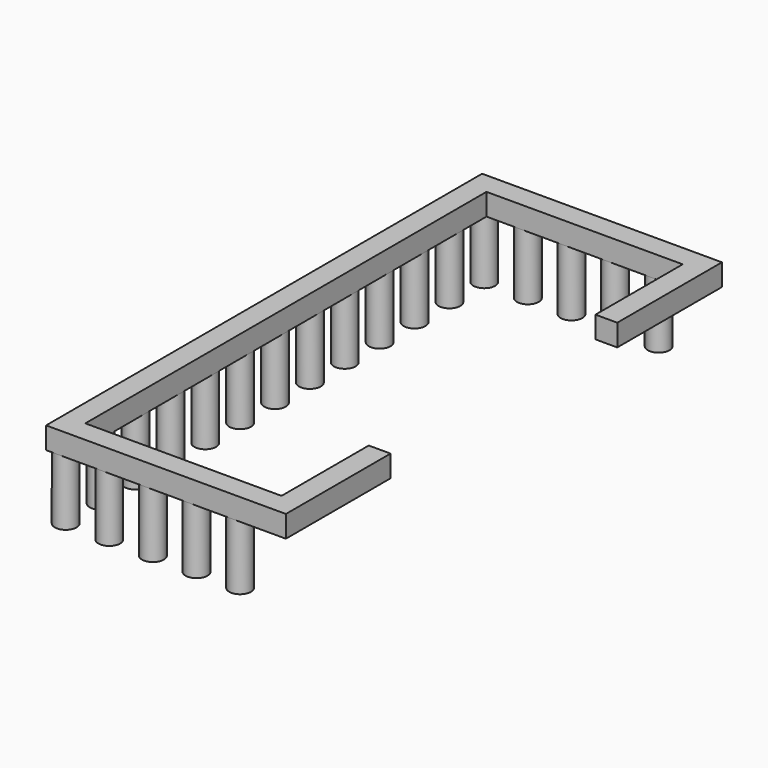
from build123d import *

# Parameters (mm, degrees)
BOX114_W          = 9
BOX114_H          = 1
BOX114_DEPTH      = 1
CYLINDER025_R     = 0.5
CYLINDER025_DEPTH = 3
CYLINDER023_R     = 0.5
CYLINDER023_DEPTH = 3
CYLINDER024_R     = 0.5
CYLINDER024_DEPTH = 3
CYLINDER026_R     = 0.5
CYLINDER026_DEPTH = 3
CYLINDER021_R     = 0.5
CYLINDER021_DEPTH = 3
CYLINDER020_R     = 0.5
CYLINDER020_DEPTH = 3
CYLINDER019_R     = 0.5
CYLINDER019_DEPTH = 3
CYLINDER022_R     = 0.5
CYLINDER022_DEPTH = 3
BOX113_W          = 9
BOX113_H          = 1
BOX113_DEPTH      = 1
CYLINDER007_R     = 0.5
CYLINDER007_DEPTH = 3
CYLINDER009_R     = 0.5
CYLINDER009_DEPTH = 3
CYLINDER008_R     = 0.5
CYLINDER008_DEPTH = 3
CYLINDER010_R     = 0.5
CYLINDER010_DEPTH = 3
CYLINDER011_R     = 0.5
CYLINDER011_DEPTH = 3
CYLINDER013_R     = 0.5
CYLINDER013_DEPTH = 3
CYLINDER012_R     = 0.5
CYLINDER012_DEPTH = 3
CYLINDER014_R     = 0.5
CYLINDER014_DEPTH = 3
CYLINDER015_R     = 0.5
CYLINDER015_DEPTH = 3
CYLINDER016_R     = 0.5
CYLINDER016_DEPTH = 3
CYLINDER017_R     = 0.5
CYLINDER017_DEPTH = 3
CYLINDER018_R     = 0.5
CYLINDER018_DEPTH = 3
CYLINDER006_R     = 0.5
CYLINDER006_DEPTH = 3
BOX112_W          = 1
BOX112_H          = 25
BOX112_DEPTH      = 1
BOX115_W          = 1
BOX115_H          = 6
BOX115_DEPTH      = 1
BOX116_W          = 1
BOX116_H          = 6
BOX116_DEPTH      = 1


with BuildPart() as box114:
    # Box114 → Box114 (new body)
    with BuildSketch(Plane(origin=(-9, 24, 14), x_dir=(1, 0, 0), z_dir=(0, 0, 1))):
        with Locations((4.5, 0.5)):
            Rectangle(BOX114_W, BOX114_H)
    extrude(amount=BOX114_DEPTH)


with BuildPart() as cylinder025:
    # Cylinder025 → Cylinder025 (new body)
    with BuildSketch(Plane(origin=(-1.5, 0.5, 11), x_dir=(1, 0, 0), z_dir=(0, 0, 1))):
        Circle(CYLINDER025_R)
    extrude(amount=CYLINDER025_DEPTH)


with BuildPart() as cylinder023:
    # Cylinder023 → Cylinder023 (new body)
    with BuildSketch(Plane(origin=(-7.5, 0.5, 11), x_dir=(1, 0, 0), z_dir=(0, 0, 1))):
        Circle(CYLINDER023_R)
    extrude(amount=CYLINDER023_DEPTH)


with BuildPart() as cylinder024:
    # Cylinder024 → Cylinder024 (new body)
    with BuildSketch(Plane(origin=(-5.5, 0.5, 11), x_dir=(1, 0, 0), z_dir=(0, 0, 1))):
        Circle(CYLINDER024_R)
    extrude(amount=CYLINDER024_DEPTH)


with BuildPart() as fusion057:
    # Cylinder026 → Cylinder026 (new body)
    with BuildSketch(Plane(origin=(-3.5, 0.5, 11), x_dir=(1, 0, 0), z_dir=(0, 0, 1))):
        Circle(CYLINDER026_R)
    extrude(amount=CYLINDER026_DEPTH)

    # Fusion056: union Cylinder025, Cylinder023, Cylinder024
    add(cylinder025.part)
    add(cylinder023.part)
    add(cylinder024.part)


with BuildPart() as fusion057_1:
    # Fusion056 placement: moved
    add(fusion057.part.moved(Location((0, 24, 0))))

    # Fusion057: union Box114
    add(box114.part)


with BuildPart() as cylinder021:
    # Cylinder021 → Cylinder021 (new body)
    with BuildSketch(Plane(origin=(-1.5, 0.5, 11), x_dir=(1, 0, 0), z_dir=(0, 0, 1))):
        Circle(CYLINDER021_R)
    extrude(amount=CYLINDER021_DEPTH)


with BuildPart() as cylinder020:
    # Cylinder020 → Cylinder020 (new body)
    with BuildSketch(Plane(origin=(-7.5, 0.5, 11), x_dir=(1, 0, 0), z_dir=(0, 0, 1))):
        Circle(CYLINDER020_R)
    extrude(amount=CYLINDER020_DEPTH)


with BuildPart() as cylinder019:
    # Cylinder019 → Cylinder019 (new body)
    with BuildSketch(Plane(origin=(-5.5, 0.5, 11), x_dir=(1, 0, 0), z_dir=(0, 0, 1))):
        Circle(CYLINDER019_R)
    extrude(amount=CYLINDER019_DEPTH)


with BuildPart() as fusion055:
    # Cylinder022 → Cylinder022 (new body)
    with BuildSketch(Plane(origin=(-3.5, 0.5, 11), x_dir=(1, 0, 0), z_dir=(0, 0, 1))):
        Circle(CYLINDER022_R)
    extrude(amount=CYLINDER022_DEPTH)

    # Fusion055: union Cylinder021, Cylinder020, Cylinder019
    add(cylinder021.part)
    add(cylinder020.part)
    add(cylinder019.part)


with BuildPart() as fusion058:
    # Box113 → Box113 (new body)
    with BuildSketch(Plane(origin=(-9, 0, 14), x_dir=(1, 0, 0), z_dir=(0, 0, 1))):
        with Locations((4.5, 0.5)):
            Rectangle(BOX113_W, BOX113_H)
    extrude(amount=BOX113_DEPTH)

    # Fusion058: union Fusion055
    add(fusion055.part)


with BuildPart() as cylinder007:
    # Cylinder007 → Cylinder007 (new body)
    with BuildSketch(Plane(origin=(-9.5, 2.5, 11), x_dir=(1, 0, 0), z_dir=(0, 0, 1))):
        Circle(CYLINDER007_R)
    extrude(amount=CYLINDER007_DEPTH)


with BuildPart() as cylinder009:
    # Cylinder009 → Cylinder009 (new body)
    with BuildSketch(Plane(origin=(-9.5, 6.5, 11), x_dir=(1, 0, 0), z_dir=(0, 0, 1))):
        Circle(CYLINDER009_R)
    extrude(amount=CYLINDER009_DEPTH)


with BuildPart() as cylinder008:
    # Cylinder008 → Cylinder008 (new body)
    with BuildSketch(Plane(origin=(-9.5, 4.5, 11), x_dir=(1, 0, 0), z_dir=(0, 0, 1))):
        Circle(CYLINDER008_R)
    extrude(amount=CYLINDER008_DEPTH)


with BuildPart() as cylinder010:
    # Cylinder010 → Cylinder010 (new body)
    with BuildSketch(Plane(origin=(-9.5, 8.5, 11), x_dir=(1, 0, 0), z_dir=(0, 0, 1))):
        Circle(CYLINDER010_R)
    extrude(amount=CYLINDER010_DEPTH)


with BuildPart() as cylinder011:
    # Cylinder011 → Cylinder011 (new body)
    with BuildSketch(Plane(origin=(-9.5, 10.5, 11), x_dir=(1, 0, 0), z_dir=(0, 0, 1))):
        Circle(CYLINDER011_R)
    extrude(amount=CYLINDER011_DEPTH)


with BuildPart() as cylinder013:
    # Cylinder013 → Cylinder013 (new body)
    with BuildSketch(Plane(origin=(-9.5, 14.5, 11), x_dir=(1, 0, 0), z_dir=(0, 0, 1))):
        Circle(CYLINDER013_R)
    extrude(amount=CYLINDER013_DEPTH)


with BuildPart() as cylinder012:
    # Cylinder012 → Cylinder012 (new body)
    with BuildSketch(Plane(origin=(-9.5, 12.5, 11), x_dir=(1, 0, 0), z_dir=(0, 0, 1))):
        Circle(CYLINDER012_R)
    extrude(amount=CYLINDER012_DEPTH)


with BuildPart() as cylinder014:
    # Cylinder014 → Cylinder014 (new body)
    with BuildSketch(Plane(origin=(-9.5, 16.5, 11), x_dir=(1, 0, 0), z_dir=(0, 0, 1))):
        Circle(CYLINDER014_R)
    extrude(amount=CYLINDER014_DEPTH)


with BuildPart() as cylinder015:
    # Cylinder015 → Cylinder015 (new body)
    with BuildSketch(Plane(origin=(-9.5, 18.5, 11), x_dir=(1, 0, 0), z_dir=(0, 0, 1))):
        Circle(CYLINDER015_R)
    extrude(amount=CYLINDER015_DEPTH)


with BuildPart() as cylinder016:
    # Cylinder016 → Cylinder016 (new body)
    with BuildSketch(Plane(origin=(-9.5, 20.5, 11), x_dir=(1, 0, 0), z_dir=(0, 0, 1))):
        Circle(CYLINDER016_R)
    extrude(amount=CYLINDER016_DEPTH)


with BuildPart() as cylinder017:
    # Cylinder017 → Cylinder017 (new body)
    with BuildSketch(Plane(origin=(-9.5, 22.5, 11), x_dir=(1, 0, 0), z_dir=(0, 0, 1))):
        Circle(CYLINDER017_R)
    extrude(amount=CYLINDER017_DEPTH)


with BuildPart() as cylinder018:
    # Cylinder018 → Cylinder018 (new body)
    with BuildSketch(Plane(origin=(-9.5, 24.5, 11), x_dir=(1, 0, 0), z_dir=(0, 0, 1))):
        Circle(CYLINDER018_R)
    extrude(amount=CYLINDER018_DEPTH)


with BuildPart() as fusion053:
    # Cylinder006 → Cylinder006 (new body)
    with BuildSketch(Plane(origin=(-9.5, 0.5, 11), x_dir=(1, 0, 0), z_dir=(0, 0, 1))):
        Circle(CYLINDER006_R)
    extrude(amount=CYLINDER006_DEPTH)

    # Fusion053: union Cylinder007, Cylinder009, Cylinder008, Cylinder010, Cylinder011, Cylinder013, Cylinder012, Cylinder014, Cylinder015, Cylinder016, Cylinder017, Cylinder018
    add(cylinder007.part)
    add(cylinder009.part)
    add(cylinder008.part)
    add(cylinder010.part)
    add(cylinder011.part)
    add(cylinder013.part)
    add(cylinder012.part)
    add(cylinder014.part)
    add(cylinder015.part)
    add(cylinder016.part)
    add(cylinder017.part)
    add(cylinder018.part)


with BuildPart() as fusion060:
    # Box112 → Box112 (new body)
    with BuildSketch(Plane(origin=(-10, 0, 14), x_dir=(1, 0, 0), z_dir=(0, 0, 1))):
        with Locations((0.5, 12.5)):
            Rectangle(BOX112_W, BOX112_H)
    extrude(amount=BOX112_DEPTH)

    # Fusion054: union Fusion053
    add(fusion053.part)

    # Fusion060: union Fusion057, Fusion058
    add(fusion057_1.part)
    add(fusion058.part)


with BuildPart() as box115:
    # Box115 → Box115 (new body)
    with BuildSketch(Plane.XY.offset(14)):
        with Locations((0.5, 3)):
            Rectangle(BOX115_W, BOX115_H)
    extrude(amount=BOX115_DEPTH)


with BuildPart() as fusion062:
    # Box116 → Box116 (new body)
    with BuildSketch(Plane(origin=(0, 19, 14), x_dir=(1, 0, 0), z_dir=(0, 0, 1))):
        with Locations((0.5, 3)):
            Rectangle(BOX116_W, BOX116_H)
    extrude(amount=BOX116_DEPTH)

    # Fusion061: union Box115
    add(box115.part)

    # Fusion062: union Fusion060
    add(fusion060.part)


solid = fusion062.part
